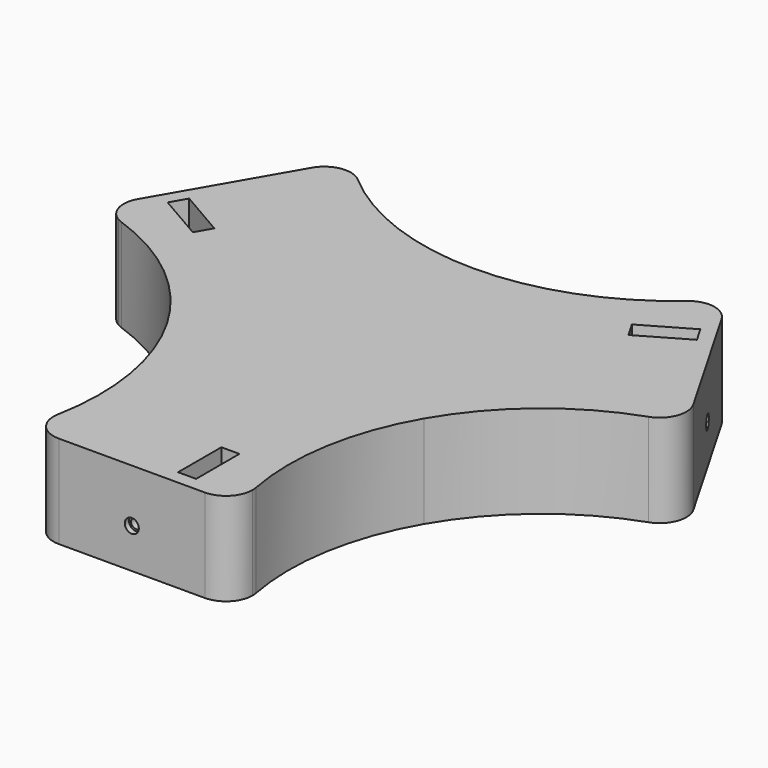
from build123d import *

# Parameters (mm, degrees)
F0_R      = 5.1
F1_DEPTH  = 35
F3_START  = -5
F2_W      = 22
F2_H      = 9.65
F3_DEPTH  = 30
F4_DEPTH  = 2.5
F5_R      = 1.9
F6_DEPTH  = 20
F5_R_2    = 2.65
F7_DEPTH  = 2
F9_DEPTH  = 35
F10_COUNT = 3
F10_ANGLE = 240


with BuildPart() as f1:
    # F0 (on Top) → F1 (new body)
    with BuildSketch(Plane.XY):
        with BuildLine():
            Line((48.3891499996, -27.9374887781), (0, 0))
            Line((0, 0), (-48.3891499996, -27.9374887781))
            ThreePointArc((-48.3891499996, -27.9374887781), (-37.0005953155, -59.5433683199), (-37.3249107961, -93.1369036932))
            ThreePointArc((-37.3249107961, -93.1369036932), (-26.5643472762, -85.0438685233), (-17.5, -95))
            ThreePointArc((-17.5, -95), (-20.4289321881, -102.0710678119), (-27.5, -105))
            Line((-27.5, -105), (27.5, -105))
            ThreePointArc((27.5, -105), (19.7983455327, -88.6215583043), (37.3249107961, -93.1369036932))
            ThreePointArc((37.3249107961, -93.1369036932), (37.0005953155, -59.5433683199), (48.3891499996, -27.9374887781))
        make_face()
        with BuildLine():
            ThreePointArc((-17.5, -95), (-26.5643472762, -85.0438685233), (-37.3249107961, -93.1369036932))
            ThreePointArc((-37.3249107961, -93.1369036932), (-35.2016544673, -101.3784416957), (-27.5, -105))
            ThreePointArc((-27.5, -105), (-20.4289321881, -102.0710678119), (-17.5, -95))
        make_face()
        with Locations((-27.5, -95)):
            Circle(F0_R, mode=Mode.SUBTRACT)
        with BuildLine():
            ThreePointArc((37.5, -95), (37.4561314767, -94.0643472762), (37.3249107961, -93.1369036932))
            ThreePointArc((37.3249107961, -93.1369036932), (19.7983455327, -88.6215583043), (27.5, -105))
            ThreePointArc((27.5, -105), (34.5710678119, -102.0710678119), (37.5, -95))
        make_face()
        with Locations((27.5, -95)):
            Circle(F0_R, mode=Mode.SUBTRACT)
    extrude(amount=-F1_DEPTH)

    # F2 (on face) → F3 (cut)
    with BuildSketch(Plane.XY.offset(F3_START)):
        with Locations((0, -95.005)):
            Rectangle(F2_W, F2_H)
    extrude(amount=-F3_DEPTH, mode=Mode.SUBTRACT)

    # F0 (on Top) → F4 (join)
    with BuildSketch(Plane.XY):
        with Locations((-27.5, -95)):
            Circle(F0_R)
        with Locations((27.5, -95)):
            Circle(F0_R)
    extrude(amount=-F4_DEPTH)

    # F5 (on face) → F6 (cut)
    with BuildSketch(Plane.XZ.offset(105)):
        with Locations((0, -20)):
            Circle(F5_R)
    extrude(amount=-F6_DEPTH, mode=Mode.SUBTRACT)

    # F5 (on face) → F7 (cut)
    with BuildSketch(Plane.XZ.offset(105)):
        with Locations((0, -20)):
            Circle(F5_R_2)
        with Locations((0, -20)):
            Circle(F5_R, mode=Mode.SUBTRACT)
    extrude(amount=-F7_DEPTH, mode=Mode.SUBTRACT)

    # F8 (on face) → F9 (cut, through all)
    with BuildSketch(Plane(origin=(0, 0, -35), x_dir=(1, 0, 0), z_dir=(0, 0, -1))):
        Polygon((20.1000036855, 95.005), (20.1000036855, 99.83), (13.2999987654, 99.83), (13.2999987654, 95.005), (13.2999987654, 79.43), (20.1000036855, 79.43), align=None)
    extrude(amount=-F9_DEPTH, mode=Mode.SUBTRACT)

    # F10: F1 ×3 about axis
    f10_axis = Axis((0, 0, 0), (0, 0, 1))


with BuildPart() as f1_1:
    add(f1.part)
    for i in range(1, F10_COUNT):
        add(f1.part.rotate(f10_axis, i * F10_ANGLE / (F10_COUNT - 1)))


solid = f1_1.part
